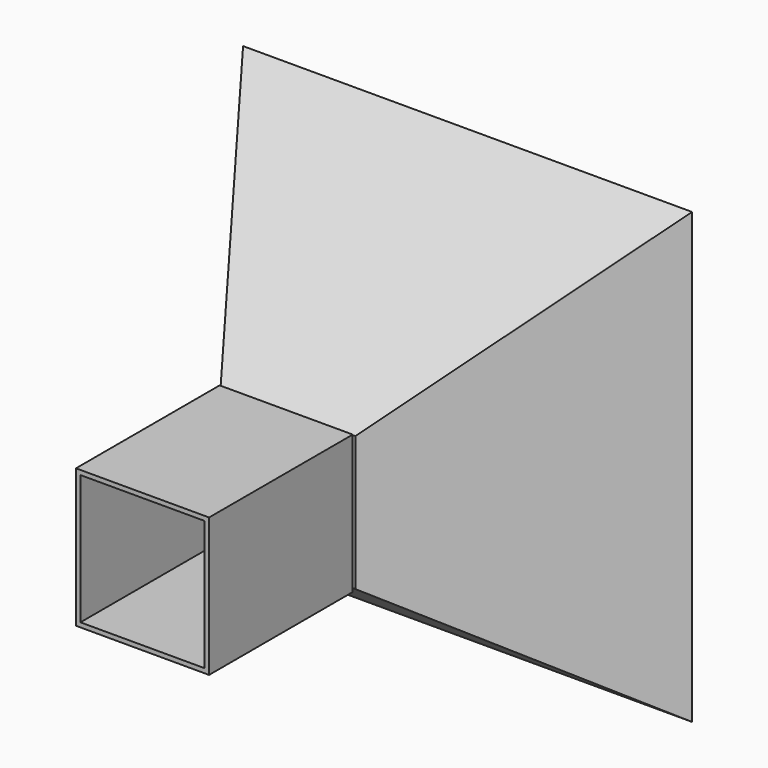
from build123d import *

# Parameters (mm, degrees)
F0_W     = 400
F0_H     = 400
F2_W     = 120
F2_H     = 120
F4_T     = -4
F7_DEPTH = 160


with BuildPart() as f3:
    # F0 (on Front) → F3 section 0
    with BuildSketch(Plane.XZ):
        Rectangle(F0_W, F0_H)
    # F2 (on offset) → F3 section 1
    with BuildSketch(Plane.XZ.offset(200)):
        Rectangle(F2_W, F2_H)
    loft()

    # F4
    f4_openings = [f3.faces().sort_by_distance(p)[0] for p in [
        (0, 0, 0),
        (0, -200, 0),
    ]]
    offset(amount=F4_T, openings=f4_openings, kind=Kind.INTERSECTION)


with BuildPart() as f7:
    # F6 (on offset) → F7 (new body)
    with BuildSketch(Plane.XZ.offset(202)):
        Polygon((59.2993535101, 61.7569126189), (-59.2993535101, 61.7569126189), (-59.2993535101, 56.7569126189), (-55.2993535101, 56.7569126189), (-55.2993535101, 57.7569126189), (55.2993535101, 57.7569126189), (55.2993535101, 56.7569126189), (59.2993535101, 56.7569126189), align=None)
        Polygon((-55.2993535101, 56.7569126189), (-59.2993535101, 56.7569126189), (-59.2993535101, -61.7569126189), (59.2993535101, -61.7569126189), (59.2993535101, 56.7569126189), (55.2993535101, 56.7569126189), (55.2993535101, -57.7569126189), (-55.2993535101, -57.7569126189), align=None)
    extrude(amount=F7_DEPTH)


solid = Compound([f3.part, f7.part])
